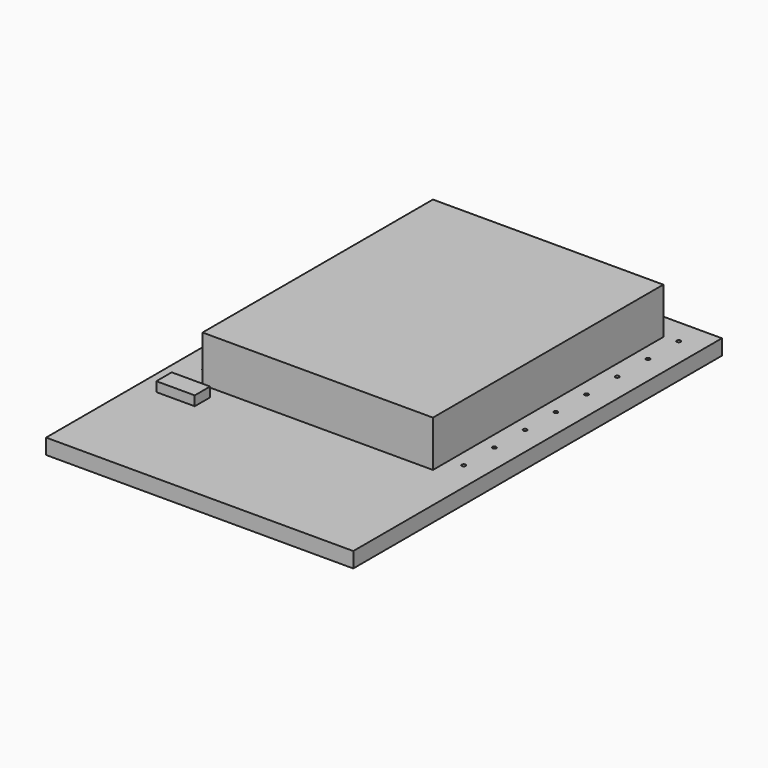
from build123d import *

# Parameters (mm, degrees)
F0_W     = 16
F0_H     = 24
F0_R     = 0.1
F1_DEPTH = 0.8
F2_W     = 12
F2_H     = 15
F3_DEPTH = 2.4
F4_W     = 2
F4_H     = 1
F5_DEPTH = 0.5


with BuildPart() as f1:
    # F0 (on Top) → F1 (new body)
    with BuildSketch(Plane.XY):
        with Locations((-8.267652, -4.8)):
            Rectangle(F0_W, F0_H)
        with Locations((-14.979416, -8.1)):
            Circle(F0_R, mode=Mode.SUBTRACT)
        with Locations((-14.979416, -6.1)):
            Circle(F0_R, mode=Mode.SUBTRACT)
        with Locations((-1.479416, -8.1)):
            Circle(F0_R, mode=Mode.SUBTRACT)
        with Locations((-1.479416, -6.1)):
            Circle(F0_R, mode=Mode.SUBTRACT)
        with Locations((-14.979416, -4.1)):
            Circle(F0_R, mode=Mode.SUBTRACT)
        with Locations((-14.979416, -2.1)):
            Circle(F0_R, mode=Mode.SUBTRACT)
        with Locations((-14.979416, -0.1)):
            Circle(F0_R, mode=Mode.SUBTRACT)
        with Locations((-14.979416, 1.9)):
            Circle(F0_R, mode=Mode.SUBTRACT)
        with Locations((-14.979416, 3.9)):
            Circle(F0_R, mode=Mode.SUBTRACT)
        with Locations((-14.979416, 5.9)):
            Circle(F0_R, mode=Mode.SUBTRACT)
        with Locations((-1.479416, -4.1)):
            Circle(F0_R, mode=Mode.SUBTRACT)
        with Locations((-1.479416, -2.1)):
            Circle(F0_R, mode=Mode.SUBTRACT)
        with Locations((-1.479416, -0.1)):
            Circle(F0_R, mode=Mode.SUBTRACT)
        with Locations((-1.479416, 1.9)):
            Circle(F0_R, mode=Mode.SUBTRACT)
        with Locations((-1.479416, 3.9)):
            Circle(F0_R, mode=Mode.SUBTRACT)
        with Locations((-1.479416, 5.9)):
            Circle(F0_R, mode=Mode.SUBTRACT)
    extrude(amount=F1_DEPTH)


with BuildPart() as f3:
    # F2 (on face) → F3 (new body)
    with BuildSketch(Plane.XY.offset(0.8)):
        with Locations((-8.199081, -1.7)):
            Rectangle(F2_W, F2_H)
    extrude(amount=F3_DEPTH)


with BuildPart() as f5:
    # F4 (on face) → F5 (new body)
    with BuildSketch(Plane.XY.offset(0.8)):
        with Locations((-14.267652, -10.371813)):
            Rectangle(F4_W, F4_H)
    extrude(amount=F5_DEPTH)


solid = Compound([f1.part, f3.part, f5.part])
